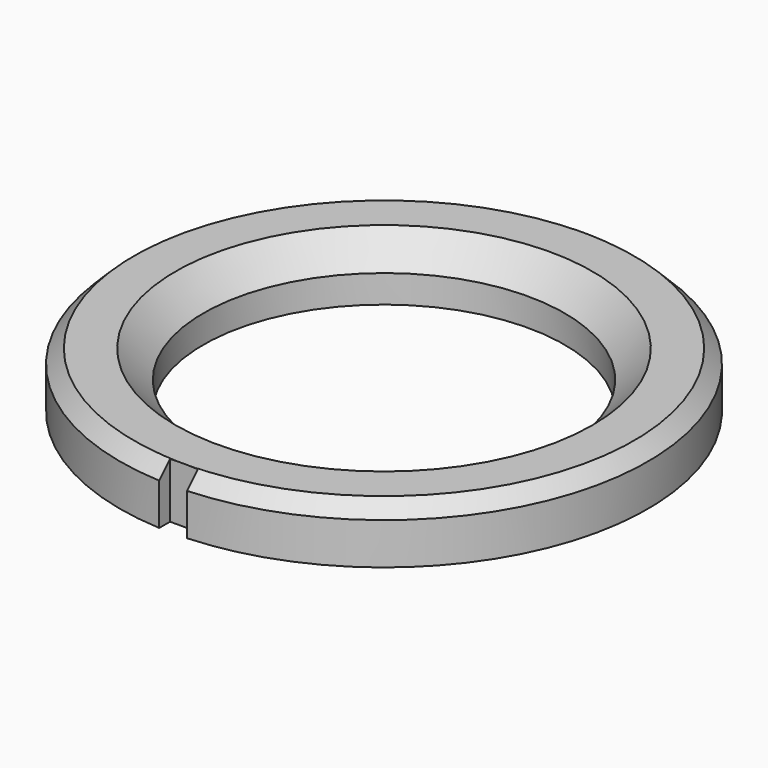
from build123d import *

# Parameters (mm, degrees)
F0_R     = 19
F0_R_2   = 13
F1_DEPTH = 4
F2_SIZE  = 1
F3_SIZE  = 2
F5_DEPTH = 4.001


with BuildPart() as f1:
    # F0 (on Top) → F1 (new body)
    with BuildSketch(Plane.XY):
        Circle(F0_R)
        Circle(F0_R_2, mode=Mode.SUBTRACT)
    extrude(amount=-F1_DEPTH)

    # F2
    f2_edges = [f1.edges().sort_by_distance(p)[0] for p in [
        (-19, 0, 0),
    ]]
    chamfer(f2_edges, length=F2_SIZE)

    # F3
    f3_edges = [f1.edges().sort_by_distance(p)[0] for p in [
        (-13, 0, 0),
    ]]
    chamfer(f3_edges, length=F3_SIZE)

    # F4 (on face) → F5 (cut, through all)
    with BuildSketch(Plane.XY):
        with BuildLine():
            Line((-1, 18.973666), (-1, 18))
            Line((-1, 18), (1, 18))
            Line((1, 18), (1, 18.973666))
            ThreePointArc((1, 18.973666), (0, 19), (-1, 18.973666))
        make_face()
        with BuildLine():
            Line((1, -18), (-1, -18))
            Line((-1, -18), (-1, -18.973666))
            ThreePointArc((-1, -18.973666), (0, -19), (1, -18.973666))
            Line((1, -18.973666), (1, -18))
        make_face()
    extrude(amount=-F5_DEPTH, mode=Mode.SUBTRACT)


solid = f1.part
